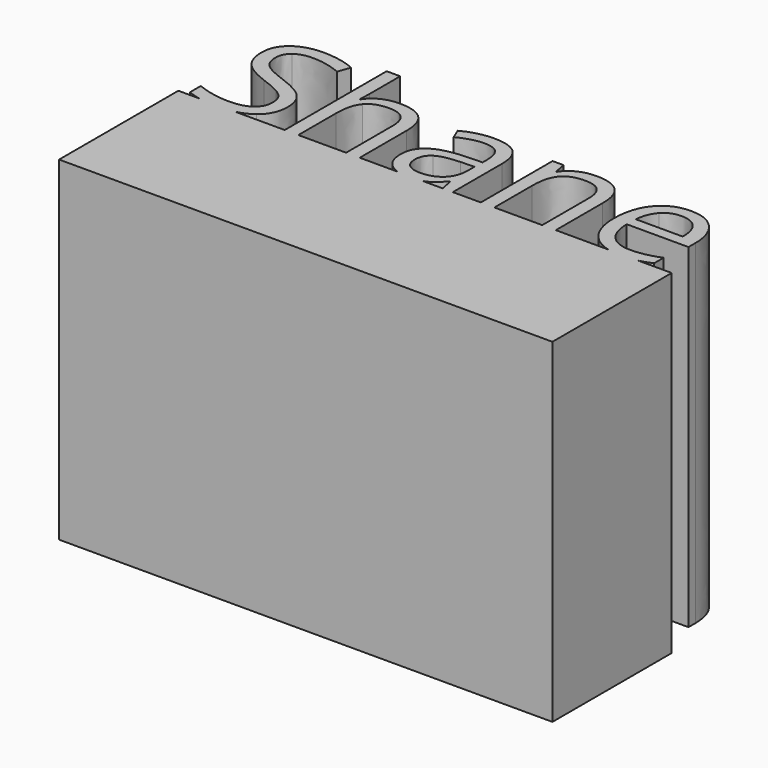
from build123d import *

# Parameters (mm, degrees)
F1_DEPTH = 25.4


with BuildPart() as f1:
    # F0 (on Top) → F1 (new body)
    with BuildSketch(Plane.XY):
        with BuildLine():
            Line((-46.072093681, 60.3123203085), (-46.072093681, 50.6460592151))
            Line((-46.072093681, 50.6460592151), (-45.0404692706, 50.6460592151))
            Line((-45.0404692706, 50.6460592151), (-45.0404692706, 54.2060579028))
            add(Edge.make_bspline(
                [(-44.5465219374, 56.1182403358), (-45.0404692706, 55.5338519415), (-45.0404692706, 54.2060579028)],
                knots=[0, 0, 0, 1, 1, 1], degree=2))
            add(Edge.make_bspline(
                [(-42.9792081656, 56.7026287301), (-44.0525746041, 56.7026287301), (-44.5465219374, 56.1182403358)],
                knots=[0, 0, 0, 1, 1, 1], degree=2))
            add(Edge.make_bspline(
                [(-41.7915480785, 56.2921654532), (-42.1702079055, 56.7026287301), (-42.9792081656, 56.7026287301)],
                knots=[0, 0, 0, 1, 1, 1], degree=2))
            add(Edge.make_bspline(
                [(-41.4128882516, 55.0508370442), (-41.4128882516, 55.8817021762), (-41.7915480785, 56.2921654532)],
                knots=[0, 0, 0, 1, 1, 1], degree=2))
            Line((-41.4128882516, 55.0508370442), (-41.4128882516, 50.6460592151))
            Line((-41.4128882516, 50.6460592151), (-40.3812638413, 50.6460592151))
            Line((-40.3812638413, 50.6460592151), (-40.3812638413, 55.0866159255))
            add(Edge.make_bspline(
                [(-41.0064004059, 56.9719641976), (-40.3812638413, 56.3786310829), (-40.3812638413, 55.0866159255)],
                knots=[0, 0, 0, 1, 1, 1], degree=2))
            add(Edge.make_bspline(
                [(-42.8798223842, 57.5652973122), (-41.6315369706, 57.5652973122), (-41.0064004059, 56.9719641976)],
                knots=[0, 0, 0, 1, 1, 1], degree=2))
            add(Edge.make_bspline(
                [(-44.1618989636, 57.2830416932), (-43.5993754412, 57.5652973122), (-42.8798223842, 57.5652973122)],
                knots=[0, 0, 0, 1, 1, 1], degree=2))
            add(Edge.make_bspline(
                [(-45.0285429769, 56.5098203143), (-44.724422486, 57.0007860741), (-44.1618989636, 57.2830416932)],
                knots=[0, 0, 0, 1, 1, 1], degree=2))
            Line((-45.0285429769, 56.5098203143), (-45.0901621613, 56.5098203143))
            add(Edge.make_bspline(
                [(-45.0404692706, 57.3864029058), (-45.0404692706, 56.857670549), (-45.0901621613, 56.5098203143)],
                knots=[0, 0, 0, 1, 1, 1], degree=2))
            Line((-45.0404692706, 57.3864029058), (-45.0404692706, 60.3123203085))
            Line((-45.0404692706, 60.3123203085), (-46.072093681, 60.3123203085))
        make_face()
        with BuildLine():
            Line((-45.0404692706, 50.6460592151), (-46.072093681, 50.6460592151))
            Line((-46.072093681, 50.6460592151), (-49.8341486189, 50.6460592151))
            add(Edge.make_bspline(
                [(-49.8341486189, 50.6460592151), (-50.3619869657, 50.5208331306), (-51.0056038668, 50.5208331306)],
                knots=[0.5682703015, 0.5682703015, 0.5682703015, 1, 1, 1], degree=2))
            add(Edge.make_bspline(
                [(-51.0056038668, 50.5208331306), (-51.8896418165, 50.5208331306), (-52.5506580728, 50.6460592151)],
                knots=[0, 0, 0, 0.5477225575, 0.5477225575, 0.5477225575], degree=2))
            Line((-52.5506580728, 50.6460592151), (-54.1481822729, 50.6460592151))
            Line((-54.1481822729, 50.6460592151), (-54.1481822729, 39.3315143883))
            Line((-54.1481822729, 39.3315143883), (-16.7024247348, 39.3315143883))
            Line((-16.7024247348, 39.3315143883), (-16.7024247348, 50.6460592151))
            Line((-16.7024247348, 50.6460592151), (-19.2318781173, 50.6460592151))
            add(Edge.make_bspline(
                [(-19.2318781173, 50.6460592151), (-19.2809179887, 50.6344775339), (-19.3293676372, 50.6241943432)],
                knots=[0.9005120931, 0.9005120931, 0.9005120931, 1, 1, 1], degree=2))
            add(Edge.make_bspline(
                [(-19.3293676372, 50.6241943432), (-19.8163579658, 50.5208331306), (-20.5060952883, 50.5208331306)],
                knots=[0, 0, 0, 1, 1, 1], degree=2))
            add(Edge.make_bspline(
                [(-20.5060952883, 50.5208331306), (-21.0626089205, 50.5208331306), (-21.5327084404, 50.6460592151)],
                knots=[0, 0, 0, 0.3688754729, 0.3688754729, 0.3688754729], degree=2))
            Line((-21.5327084404, 50.6460592151), (-25.499236943, 50.6460592151))
            Line((-25.499236943, 50.6460592151), (-26.5308613533, 50.6460592151))
            Line((-26.5308613533, 50.6460592151), (-30.1584423723, 50.6460592151))
            Line((-30.1584423723, 50.6460592151), (-31.1900667827, 50.6460592151))
            Line((-31.1900667827, 50.6460592151), (-33.3129470722, 50.6460592151))
            Line((-33.3129470722, 50.6460592151), (-34.0782175885, 50.6460592151))
            Line((-34.0782175885, 50.6460592151), (-35.6255405472, 50.6460592151))
            add(Edge.make_bspline(
                [(-35.6255405472, 50.6460592151), (-36.0493258334, 50.5208331306), (-36.6125550128, 50.5208331306)],
                knots=[0.2582329607, 0.2582329607, 0.2582329607, 1, 1, 1], degree=2))
            add(Edge.make_bspline(
                [(-36.6125550128, 50.5208331306), (-37.1077365399, 50.5208331306), (-37.4981662093, 50.6460592151)],
                knots=[0, 0, 0, 0.4894320446, 0.4894320446, 0.4894320446], degree=2))
            Line((-37.4981662093, 50.6460592151), (-40.3812638413, 50.6460592151))
            Line((-40.3812638413, 50.6460592151), (-41.4128882516, 50.6460592151))
            Line((-41.4128882516, 50.6460592151), (-45.0404692706, 50.6460592151))
        make_face()
        with BuildLine():
            add(Edge.make_bspline(
                [(-49.8341486189, 50.6460592151), (-50.3619869657, 50.5208331306), (-51.0056038668, 50.5208331306)],
                knots=[0.5682703015, 0.5682703015, 0.5682703015, 1, 1, 1], degree=2))
            Line((-49.8341486189, 50.6460592151), (-52.5506580728, 50.6460592151))
            add(Edge.make_bspline(
                [(-51.0056038668, 50.5208331306), (-51.8896418165, 50.5208331306), (-52.5506580728, 50.6460592151)],
                knots=[0, 0, 0, 0.5477225575, 0.5477225575, 0.5477225575], degree=2))
        make_face()
        with BuildLine():
            Line((-52.5506580728, 50.6460592151), (-49.8341486189, 50.6460592151))
            add(Edge.make_bspline(
                [(-48.6451915599, 51.1926810125), (-49.1393739543, 50.810889814), (-49.8341486189, 50.6460592151)],
                knots=[0, 0, 0, 0.5682703015, 0.5682703015, 0.5682703015], degree=2))
            add(Edge.make_bspline(
                [(-47.7755659732, 53.0631214173), (-47.7755659732, 51.8645288943), (-48.6451915599, 51.1926810125)],
                knots=[0, 0, 0, 1, 1, 1], degree=2))
            add(Edge.make_bspline(
                [(-48.3122491925, 54.577760725), (-47.7755659732, 53.9933723307), (-47.7755659732, 53.0631214173)],
                knots=[0, 0, 0, 1, 1, 1], degree=2))
            add(Edge.make_bspline(
                [(-50.2780999474, 55.6710043198), (-48.8489324117, 55.1621491193), (-48.3122491925, 54.577760725)],
                knots=[0, 0, 0, 1, 1, 1], degree=2))
            add(Edge.make_bspline(
                [(-51.5422870861, 56.2265708375), (-51.1288422357, 55.9751248107), (-50.2780999474, 55.6710043198)],
                knots=[0, 0, 0, 1, 1, 1], degree=2))
            add(Edge.make_bspline(
                [(-52.1296570538, 56.7801496396), (-51.9557319365, 56.4780168643), (-51.5422870861, 56.2265708375)],
                knots=[0, 0, 0, 1, 1, 1], degree=2))
            add(Edge.make_bspline(
                [(-52.3035821712, 57.5533710184), (-52.3035821712, 57.0822824148), (-52.1296570538, 56.7801496396)],
                knots=[0, 0, 0, 1, 1, 1], degree=2))
            add(Edge.make_bspline(
                [(-51.8314997098, 58.5531919787), (-52.3035821712, 58.1934154503), (-52.3035821712, 57.5533710184)],
                knots=[0, 0, 0, 1, 1, 1], degree=2))
            add(Edge.make_bspline(
                [(-50.5206012539, 58.9129685072), (-51.3594172484, 58.9129685072), (-51.8314997098, 58.5531919787)],
                knots=[0, 0, 0, 1, 1, 1], degree=2))
            add(Edge.make_bspline(
                [(-48.3341140643, 58.4418799036), (-49.4591611091, 58.9129685072), (-50.5206012539, 58.9129685072)],
                knots=[0, 0, 0, 1, 1, 1], degree=2))
            Line((-48.3341140643, 58.4418799036), (-48.0041532703, 59.3602045232))
            add(Edge.make_bspline(
                [(-50.4947609507, 59.8571334299), (-49.1411266089, 59.8571334299), (-48.0041532703, 59.3602045232)],
                knots=[0, 0, 0, 1, 1, 1], degree=2))
            add(Edge.make_bspline(
                [(-52.5828562168, 59.2359722965), (-51.7947269707, 59.8571334299), (-50.4947609507, 59.8571334299)],
                knots=[0, 0, 0, 1, 1, 1], degree=2))
            add(Edge.make_bspline(
                [(-53.3709854628, 57.5652973122), (-53.3709854628, 58.6148111631), (-52.5828562168, 59.2359722965)],
                knots=[0, 0, 0, 1, 1, 1], degree=2))
            add(Edge.make_bspline(
                [(-52.8273452389, 55.9443152185), (-53.3709854628, 56.5654763519), (-53.3709854628, 57.5652973122)],
                knots=[0, 0, 0, 1, 1, 1], degree=2))
            add(Edge.make_bspline(
                [(-51.0175301606, 54.8699549221), (-52.2837050149, 55.3231540851), (-52.8273452389, 55.9443152185)],
                knots=[0, 0, 0, 1, 1, 1], degree=2))
            add(Edge.make_bspline(
                [(-49.6668773922, 54.2925235325), (-50.1111318348, 54.5479449906), (-51.0175301606, 54.8699549221)],
                knots=[0, 0, 0, 1, 1, 1], degree=2))
            add(Edge.make_bspline(
                [(-49.0327961072, 53.735963157), (-49.2226229496, 54.0371020745), (-49.6668773922, 54.2925235325)],
                knots=[0, 0, 0, 1, 1, 1], degree=2))
            add(Edge.make_bspline(
                [(-48.8429692648, 52.963735636), (-48.8429692648, 53.4348242396), (-49.0327961072, 53.735963157)],
                knots=[0, 0, 0, 1, 1, 1], degree=2))
            add(Edge.make_bspline(
                [(-49.3776647684, 51.8476333115), (-48.8429692648, 52.2481580103), (-48.8429692648, 52.963735636)],
                knots=[0, 0, 0, 1, 1, 1], degree=2))
            add(Edge.make_bspline(
                [(-50.9678372699, 51.4471086127), (-49.9123602721, 51.4471086127), (-49.3776647684, 51.8476333115)],
                knots=[0, 0, 0, 1, 1, 1], degree=2))
            add(Edge.make_bspline(
                [(-52.2717787212, 51.5842609909), (-51.6138448487, 51.4471086127), (-50.9678372699, 51.4471086127)],
                knots=[0, 0, 0, 1, 1, 1], degree=2))
            add(Edge.make_bspline(
                [(-53.4902484004, 51.9559638132), (-52.9297125936, 51.7214133692), (-52.2717787212, 51.5842609909)],
                knots=[0, 0, 0, 1, 1, 1], degree=2))
            Line((-53.4902484004, 51.9559638132), (-53.4902484004, 50.9382534122))
            add(Edge.make_bspline(
                [(-52.5506580728, 50.6460592151), (-53.0964868646, 50.7494636348), (-53.4902484004, 50.9382534122)],
                knots=[0.5477225575, 0.5477225575, 0.5477225575, 1, 1, 1], degree=2))
        make_face()
        with BuildLine():
            add(Edge.make_bspline(
                [(-37.4981662093, 50.6460592151), (-37.9054564148, 50.7766931338), (-38.198752083, 51.0436023404)],
                knots=[0.4894320446, 0.4894320446, 0.4894320446, 1, 1, 1], degree=2))
            Line((-37.4981662093, 50.6460592151), (-35.6255405472, 50.6460592151))
            add(Edge.make_bspline(
                [(-35.3473740163, 50.7484265699), (-35.4780072607, 50.6896544422), (-35.6255405472, 50.6460592151)],
                knots=[0, 0, 0, 0.2582329607, 0.2582329607, 0.2582329607], degree=2))
            add(Edge.make_bspline(
                [(-34.3326451887, 51.616064441), (-34.8415003892, 50.9760200091), (-35.3473740163, 50.7484265699)],
                knots=[0, 0, 0, 1, 1, 1], degree=2))
            Line((-34.3326451887, 51.616064441), (-34.2829522981, 51.616064441))
            Line((-34.2829522981, 51.616064441), (-34.0782175885, 50.6460592151))
            Line((-34.0782175885, 50.6460592151), (-33.3129470722, 50.6460592151))
            Line((-33.3129470722, 50.6460592151), (-33.3129470722, 55.2933383507))
            add(Edge.make_bspline(
                [(-33.9003170399, 57.0256325195), (-33.3129470722, 56.4859677268), (-33.3129470722, 55.2933383507)],
                knots=[0, 0, 0, 1, 1, 1], degree=2))
            add(Edge.make_bspline(
                [(-35.7041689713, 57.5652973122), (-34.4876870076, 57.5652973122), (-33.9003170399, 57.0256325195)],
                knots=[0, 0, 0, 1, 1, 1], degree=2))
            add(Edge.make_bspline(
                [(-36.9077307833, 57.4102554933), (-36.3084345218, 57.5652973122), (-35.7041689713, 57.5652973122)],
                knots=[0, 0, 0, 1, 1, 1], degree=2))
            add(Edge.make_bspline(
                [(-38.0099190984, 56.9828966335), (-37.5070270448, 57.2552136744), (-36.9077307833, 57.4102554933)],
                knots=[0, 0, 0, 1, 1, 1], degree=2))
            Line((-38.0099190984, 56.9828966335), (-37.6918845981, 56.1937735296))
            add(Edge.make_bspline(
                [(-35.7677758713, 56.7145550239), (-36.6185181596, 56.7145550239), (-37.6918845981, 56.1937735296)],
                knots=[0, 0, 0, 1, 1, 1], degree=2))
            add(Edge.make_bspline(
                [(-34.6645936984, 56.3329136235), (-35.0084685019, 56.7145550239), (-35.7677758713, 56.7145550239)],
                knots=[0, 0, 0, 1, 1, 1], degree=2))
            add(Edge.make_bspline(
                [(-34.320718895, 55.1502228255), (-34.320718895, 55.9512722232), (-34.6645936984, 56.3329136235)],
                knots=[0, 0, 0, 1, 1, 1], degree=2))
            Line((-34.320718895, 55.1502228255), (-34.320718895, 54.726839397))
            Line((-34.320718895, 54.726839397), (-35.4755816742, 54.6890728001))
            add(Edge.make_bspline(
                [(-38.7732018992, 52.5284259137), (-38.7732018992, 54.5896870188), (-35.4755816742, 54.6890728001)],
                knots=[0, 0, 0, 1, 1, 1], degree=2))
            add(Edge.make_bspline(
                [(-38.198752083, 51.0436023404), (-38.7732018992, 51.5663715503), (-38.7732018992, 52.5284259137)],
                knots=[0, 0, 0, 1, 1, 1], degree=2))
        make_face()
        with BuildLine():
            add(Edge.make_bspline(
                [(-36.4078203032, 51.3735631345), (-35.4437782242, 51.3735631345), (-34.8941748533, 51.9013016334)],
                knots=[0, 0, 0, 1, 1, 1], degree=2))
            add(Edge.make_bspline(
                [(-37.3539729416, 51.6647634738), (-37.016061285, 51.3735631345), (-36.4078203032, 51.3735631345)],
                knots=[0, 0, 0, 1, 1, 1], degree=2))
            add(Edge.make_bspline(
                [(-37.6918845981, 52.5164996199), (-37.6918845981, 51.9559638132), (-37.3539729416, 51.6647634738)],
                knots=[0, 0, 0, 1, 1, 1], degree=2))
            add(Edge.make_bspline(
                [(-37.149238232, 53.5689950444), (-37.6918845981, 53.23008953), (-37.6918845981, 52.5164996199)],
                knots=[0, 0, 0, 1, 1, 1], degree=2))
            add(Edge.make_bspline(
                [(-35.3761958928, 53.9516303025), (-36.6065918659, 53.9079005587), (-37.149238232, 53.5689950444)],
                knots=[0, 0, 0, 1, 1, 1], degree=2))
            Line((-35.3761958928, 53.9516303025), (-34.3445714825, 53.9933723307))
            Line((-34.3445714825, 53.9933723307), (-34.3445714825, 53.379168202))
            add(Edge.make_bspline(
                [(-34.8941748533, 51.9013016334), (-34.3445714825, 52.4290401324), (-34.3445714825, 53.379168202)],
                knots=[0, 0, 0, 1, 1, 1], degree=2))
        make_face(mode=Mode.SUBTRACT)
        with BuildLine():
            Line((-35.6255405472, 50.6460592151), (-37.4981662093, 50.6460592151))
            add(Edge.make_bspline(
                [(-36.6125550128, 50.5208331306), (-37.1077365399, 50.5208331306), (-37.4981662093, 50.6460592151)],
                knots=[0, 0, 0, 0.4894320446, 0.4894320446, 0.4894320446], degree=2))
            add(Edge.make_bspline(
                [(-35.6255405472, 50.6460592151), (-36.0493258334, 50.5208331306), (-36.6125550128, 50.5208331306)],
                knots=[0.2582329607, 0.2582329607, 0.2582329607, 1, 1, 1], degree=2))
        make_face()
        with BuildLine():
            add(Edge.make_bspline(
                [(-19.2318781173, 50.6460592151), (-19.2809179887, 50.6344775339), (-19.3293676372, 50.6241943432)],
                knots=[0.9005120931, 0.9005120931, 0.9005120931, 1, 1, 1], degree=2))
            Line((-19.2318781173, 50.6460592151), (-21.5327084404, 50.6460592151))
            add(Edge.make_bspline(
                [(-20.5060952883, 50.5208331306), (-21.0626089205, 50.5208331306), (-21.5327084404, 50.6460592151)],
                knots=[0, 0, 0, 0.3688754729, 0.3688754729, 0.3688754729], degree=2))
            add(Edge.make_bspline(
                [(-19.3293676372, 50.6241943432), (-19.8163579658, 50.5208331306), (-20.5060952883, 50.5208331306)],
                knots=[0, 0, 0, 1, 1, 1], degree=2))
        make_face()
        with BuildLine():
            Line((-21.5327084404, 50.6460592151), (-19.2318781173, 50.6460592151))
            add(Edge.make_bspline(
                [(-18.2957555112, 50.9621059997), (-18.7879950501, 50.7508904885), (-19.2318781173, 50.6460592151)],
                knots=[0, 0, 0, 0.9005120931, 0.9005120931, 0.9005120931], degree=2))
            Line((-18.2957555112, 50.9621059997), (-18.2957555112, 51.882418335))
            add(Edge.make_bspline(
                [(-20.4683286914, 51.4232560252), (-19.3691219497, 51.4232560252), (-18.2957555112, 51.882418335)],
                knots=[0, 0, 0, 1, 1, 1], degree=2))
            add(Edge.make_bspline(
                [(-22.0863292117, 52.0444171586), (-21.5118793955, 51.4232560252), (-20.4683286914, 51.4232560252)],
                knots=[0, 0, 0, 1, 1, 1], degree=2))
            add(Edge.make_bspline(
                [(-22.6925824779, 53.864170815), (-22.6607790278, 52.665578292), (-22.0863292117, 52.0444171586)],
                knots=[0, 0, 0, 1, 1, 1], degree=2))
            Line((-22.6925824779, 53.864170815), (-18.0035613141, 53.864170815))
            Line((-18.0035613141, 53.864170815), (-18.0035613141, 54.5161415406))
            add(Edge.make_bspline(
                [(-18.7489546742, 56.7374137536), (-18.0035613141, 55.8956161856), (-18.0035613141, 54.5161415406)],
                knots=[0, 0, 0, 1, 1, 1], degree=2))
            add(Edge.make_bspline(
                [(-20.7724491823, 57.5792113216), (-19.4943480342, 57.5792113216), (-18.7489546742, 56.7374137536)],
                knots=[0, 0, 0, 1, 1, 1], degree=2))
            add(Edge.make_bspline(
                [(-22.9509855093, 56.6101999535), (-22.1399975336, 57.5792113216), (-20.7724491823, 57.5792113216)],
                knots=[0, 0, 0, 1, 1, 1], degree=2))
            add(Edge.make_bspline(
                [(-23.7619734851, 53.9933723307), (-23.7619734851, 55.6411885854), (-22.9509855093, 56.6101999535)],
                knots=[0, 0, 0, 1, 1, 1], degree=2))
            add(Edge.make_bspline(
                [(-22.8883724671, 51.4411454658), (-23.7619734851, 52.361457801), (-23.7619734851, 53.9933723307)],
                knots=[0, 0, 0, 1, 1, 1], degree=2))
            add(Edge.make_bspline(
                [(-21.5327084404, 50.6460592151), (-22.3370214377, 50.8603137784), (-22.8883724671, 51.4411454658)],
                knots=[0.3688754729, 0.3688754729, 0.3688754729, 1, 1, 1], degree=2))
        make_face()
        with BuildLine():
            add(Edge.make_bspline(
                [(-20.7863631917, 56.7145550239), (-21.60530203, 56.7145550239), (-22.0932862164, 56.1808533781)],
                knots=[0, 0, 0, 1, 1, 1], degree=2))
            add(Edge.make_bspline(
                [(-19.5430470671, 56.1957612453), (-19.9773629316, 56.7145550239), (-20.7863631917, 56.7145550239)],
                knots=[0, 0, 0, 1, 1, 1], degree=2))
            add(Edge.make_bspline(
                [(-19.1087312026, 54.7029868095), (-19.1087312026, 55.6769674667), (-19.5430470671, 56.1957612453)],
                knots=[0, 0, 0, 1, 1, 1], degree=2))
            Line((-19.1087312026, 54.7029868095), (-22.6687298903, 54.7029868095))
            add(Edge.make_bspline(
                [(-22.0932862164, 56.1808533781), (-22.5812704028, 55.6471517322), (-22.6687298903, 54.7029868095)],
                knots=[0, 0, 0, 1, 1, 1], degree=2))
        make_face(mode=Mode.SUBTRACT)
        with BuildLine():
            Line((-31.1900667827, 57.4539852371), (-31.1900667827, 50.6460592151))
            Line((-31.1900667827, 50.6460592151), (-30.1584423723, 50.6460592151))
            Line((-30.1584423723, 50.6460592151), (-30.1584423723, 54.2179841965))
            add(Edge.make_bspline(
                [(-29.6615134656, 56.1251973405), (-30.1584423723, 55.5477659509), (-30.1584423723, 54.2179841965)],
                knots=[0, 0, 0, 1, 1, 1], degree=2))
            add(Edge.make_bspline(
                [(-28.0971812673, 56.7026287301), (-29.1645845589, 56.7026287301), (-29.6615134656, 56.1251973405)],
                knots=[0, 0, 0, 1, 1, 1], degree=2))
            add(Edge.make_bspline(
                [(-26.9095211802, 56.2921654532), (-27.2881810072, 56.7026287301), (-28.0971812673, 56.7026287301)],
                knots=[0, 0, 0, 1, 1, 1], degree=2))
            add(Edge.make_bspline(
                [(-26.5308613533, 55.0508370442), (-26.5308613533, 55.8817021762), (-26.9095211802, 56.2921654532)],
                knots=[0, 0, 0, 1, 1, 1], degree=2))
            Line((-26.5308613533, 55.0508370442), (-26.5308613533, 50.6460592151))
            Line((-26.5308613533, 50.6460592151), (-25.499236943, 50.6460592151))
            Line((-25.499236943, 50.6460592151), (-25.499236943, 55.0866159255))
            add(Edge.make_bspline(
                [(-26.1203980764, 56.9858782069), (-25.499236943, 56.3925450923), (-25.499236943, 55.0866159255)],
                knots=[0, 0, 0, 1, 1, 1], degree=2))
            add(Edge.make_bspline(
                [(-27.9719551828, 57.5792113216), (-26.7415592098, 57.5792113216), (-26.1203980764, 56.9858782069)],
                knots=[0, 0, 0, 1, 1, 1], degree=2))
            add(Edge.make_bspline(
                [(-29.2450870418, 57.3019249916), (-28.6736187991, 57.5792113216), (-27.9719551828, 57.5792113216)],
                knots=[0, 0, 0, 1, 1, 1], degree=2))
            add(Edge.make_bspline(
                [(-30.1345897848, 56.5217466081), (-29.8165552845, 57.0246386617), (-29.2450870418, 57.3019249916)],
                knots=[0, 0, 0, 1, 1, 1], degree=2))
            Line((-30.1345897848, 56.5217466081), (-30.1842826755, 56.5217466081))
            Line((-30.1842826755, 56.5217466081), (-30.3512507881, 57.4539852371))
            Line((-30.3512507881, 57.4539852371), (-31.1900667827, 57.4539852371))
        make_face()
    extrude(amount=F1_DEPTH)


solid = f1.part
